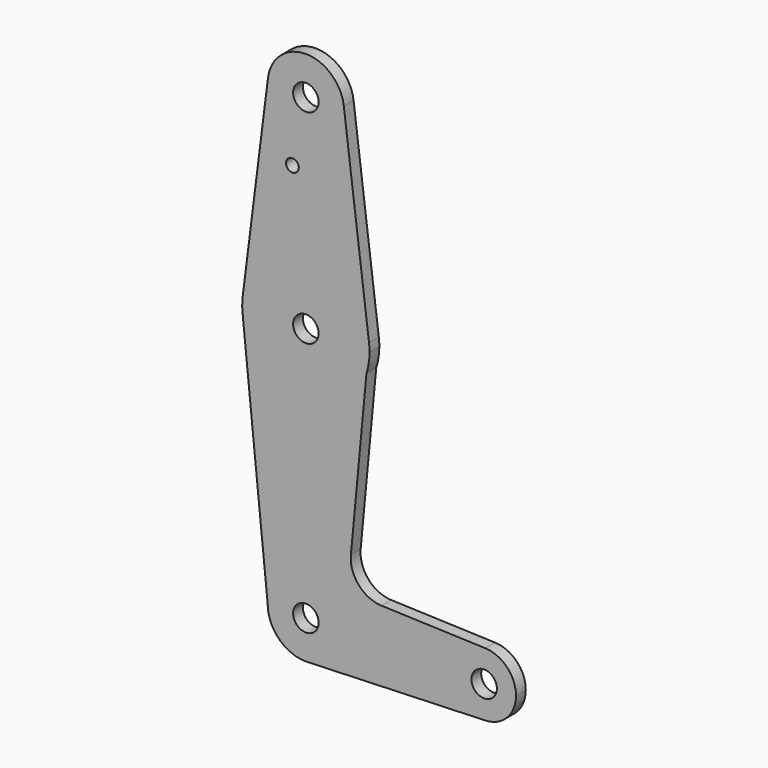
from build123d import *

# Parameters (mm, degrees)
F0_R     = 3.175
F0_R_2   = 1.5875
F1_DEPTH = 3.048
F2_DEPTH = 3.048


with BuildPart() as f1:
    # F0 (on Front) → F1 (new body)
    with BuildSketch(Plane.XZ):
        with BuildLine():
            ThreePointArc((15.100703, 58.602614), (15.680231, 61.020891), (15.875, 63.5))
            ThreePointArc((15.875, 63.5), (15.843841, 64.494139), (15.750488, 65.484375))
            Line((15.750488, 65.484375), (15.100703, 58.602614))
        make_face()
        with BuildLine():
            Line((15.100703, 58.602614), (15.750488, 65.484375))
            ThreePointArc((15.750488, 65.484375), (0, 79.375), (-15.750488, 65.484375))
            ThreePointArc((-15.750488, 65.484375), (-15.873819, 63.693615), (-15.794203, 61.90038))
            ThreePointArc((-15.794203, 61.90038), (-1.684948, 47.714672), (15.100703, 58.602614))
        make_face()
        with Locations((0, 63.5)):
            Circle(F0_R, mode=Mode.SUBTRACT)
        with BuildLine():
            ThreePointArc((-15.750488, 65.484375), (0, 79.375), (15.750488, 65.484375))
            Line((15.750488, 65.484375), (9.450293, 115.490625))
            ThreePointArc((9.450293, 115.490625), (9.506305, 114.896483), (9.525, 114.3))
            ThreePointArc((9.525, 114.3), (-0.596483, 104.793695), (-9.450293, 115.490625))
            Line((-9.450293, 115.490625), (-15.750488, 65.484375))
        make_face()
        with Locations((-3.3578, 98.27597)):
            Circle(F0_R_2, mode=Mode.SUBTRACT)
        with BuildLine():
            Line((11.224102, 17.546207), (15.100703, 58.602614))
            ThreePointArc((15.100703, 58.602614), (-1.684948, 47.714672), (-15.794203, 61.90038))
            Line((-15.794203, 61.90038), (-9.525, 0))
            ThreePointArc((-9.525, 0), (0, 9.525), (9.525, 0))
            ThreePointArc((9.525, 0), (6.970557, -6.491299), (0.677344, -9.500886))
            Line((0.677344, -9.500886), (44.732405, -7.932475))
            ThreePointArc((44.732405, -7.932475), (36.5125, 0), (44.732405, 7.932475))
            Line((44.732405, 7.932475), (18.85624, 8.853696))
            ThreePointArc((18.85624, 8.853696), (13.164892, 11.553432), (11.224102, 17.546207))
        make_face()
        with BuildLine():
            ThreePointArc((9.525, 114.3), (9.506305, 114.896483), (9.450293, 115.490625))
            ThreePointArc((9.450293, 115.490625), (0, 123.825), (-9.450293, 115.490625))
            ThreePointArc((-9.450293, 115.490625), (-0.596483, 104.793695), (9.525, 114.3))
        make_face()
        with Locations((0, 114.3)):
            Circle(F0_R, mode=Mode.SUBTRACT)
        with BuildLine():
            ThreePointArc((9.525, 0), (0, 9.525), (-9.525, 0))
            ThreePointArc((-9.525, 0), (-6.735192, -6.735192), (0, -9.525))
            Line((0, -9.525), (0.677344, -9.500886))
            ThreePointArc((0.677344, -9.500886), (6.970557, -6.491299), (9.525, 0))
        make_face()
        Circle(F0_R, mode=Mode.SUBTRACT)
        with BuildLine():
            Line((0.677344, -9.500886), (0, -9.525))
            ThreePointArc((0, -9.525), (0.338886, -9.51897), (0.677344, -9.500886))
        make_face()
        with BuildLine():
            ThreePointArc((52.3875, 0), (50.161633, 5.51191), (44.732405, 7.932475))
            ThreePointArc((44.732405, 7.932475), (36.5125, 0), (44.732405, -7.932475))
            ThreePointArc((44.732405, -7.932475), (50.161633, -5.51191), (52.3875, 0))
        make_face()
        with Locations((44.45, 0)):
            Circle(F0_R, mode=Mode.SUBTRACT)
    extrude(amount=F1_DEPTH)


with BuildPart() as f2:
    # F0 (on Front) → F2 (new body)
    with BuildSketch(Plane.XZ):
        with BuildLine():
            ThreePointArc((15.100703, 58.602614), (15.680231, 61.020891), (15.875, 63.5))
            ThreePointArc((15.875, 63.5), (15.843841, 64.494139), (15.750488, 65.484375))
            Line((15.750488, 65.484375), (15.100703, 58.602614))
        make_face()
        with BuildLine():
            Line((15.100703, 58.602614), (15.750488, 65.484375))
            ThreePointArc((15.750488, 65.484375), (0, 79.375), (-15.750488, 65.484375))
            ThreePointArc((-15.750488, 65.484375), (-15.873819, 63.693615), (-15.794203, 61.90038))
            ThreePointArc((-15.794203, 61.90038), (-1.684948, 47.714672), (15.100703, 58.602614))
        make_face()
        with Locations((0, 63.5)):
            Circle(F0_R, mode=Mode.SUBTRACT)
        with BuildLine():
            ThreePointArc((-15.750488, 65.484375), (0, 79.375), (15.750488, 65.484375))
            Line((15.750488, 65.484375), (9.450293, 115.490625))
            ThreePointArc((9.450293, 115.490625), (9.506305, 114.896483), (9.525, 114.3))
            ThreePointArc((9.525, 114.3), (-0.596483, 104.793695), (-9.450293, 115.490625))
            Line((-9.450293, 115.490625), (-15.750488, 65.484375))
        make_face()
        with Locations((-3.3578, 98.27597)):
            Circle(F0_R_2, mode=Mode.SUBTRACT)
        with BuildLine():
            Line((11.224102, 17.546207), (15.100703, 58.602614))
            ThreePointArc((15.100703, 58.602614), (-1.684948, 47.714672), (-15.794203, 61.90038))
            Line((-15.794203, 61.90038), (-9.525, 0))
            ThreePointArc((-9.525, 0), (0, 9.525), (9.525, 0))
            ThreePointArc((9.525, 0), (6.970557, -6.491299), (0.677344, -9.500886))
            Line((0.677344, -9.500886), (44.732405, -7.932475))
            ThreePointArc((44.732405, -7.932475), (36.5125, 0), (44.732405, 7.932475))
            Line((44.732405, 7.932475), (18.85624, 8.853696))
            ThreePointArc((18.85624, 8.853696), (13.164892, 11.553432), (11.224102, 17.546207))
        make_face()
        with BuildLine():
            ThreePointArc((9.525, 114.3), (9.506305, 114.896483), (9.450293, 115.490625))
            ThreePointArc((9.450293, 115.490625), (0, 123.825), (-9.450293, 115.490625))
            ThreePointArc((-9.450293, 115.490625), (-0.596483, 104.793695), (9.525, 114.3))
        make_face()
        with Locations((0, 114.3)):
            Circle(F0_R, mode=Mode.SUBTRACT)
        with BuildLine():
            ThreePointArc((9.525, 0), (0, 9.525), (-9.525, 0))
            ThreePointArc((-9.525, 0), (-6.735192, -6.735192), (0, -9.525))
            Line((0, -9.525), (0.677344, -9.500886))
            ThreePointArc((0.677344, -9.500886), (6.970557, -6.491299), (9.525, 0))
        make_face()
        Circle(F0_R, mode=Mode.SUBTRACT)
        with BuildLine():
            Line((0.677344, -9.500886), (0, -9.525))
            ThreePointArc((0, -9.525), (0.338886, -9.51897), (0.677344, -9.500886))
        make_face()
        with BuildLine():
            ThreePointArc((52.3875, 0), (50.161633, 5.51191), (44.732405, 7.932475))
            ThreePointArc((44.732405, 7.932475), (36.5125, 0), (44.732405, -7.932475))
            ThreePointArc((44.732405, -7.932475), (50.161633, -5.51191), (52.3875, 0))
        make_face()
        with Locations((44.45, 0)):
            Circle(F0_R, mode=Mode.SUBTRACT)
    extrude(amount=F2_DEPTH)


solid = Compound([f1.part, f2.part])
